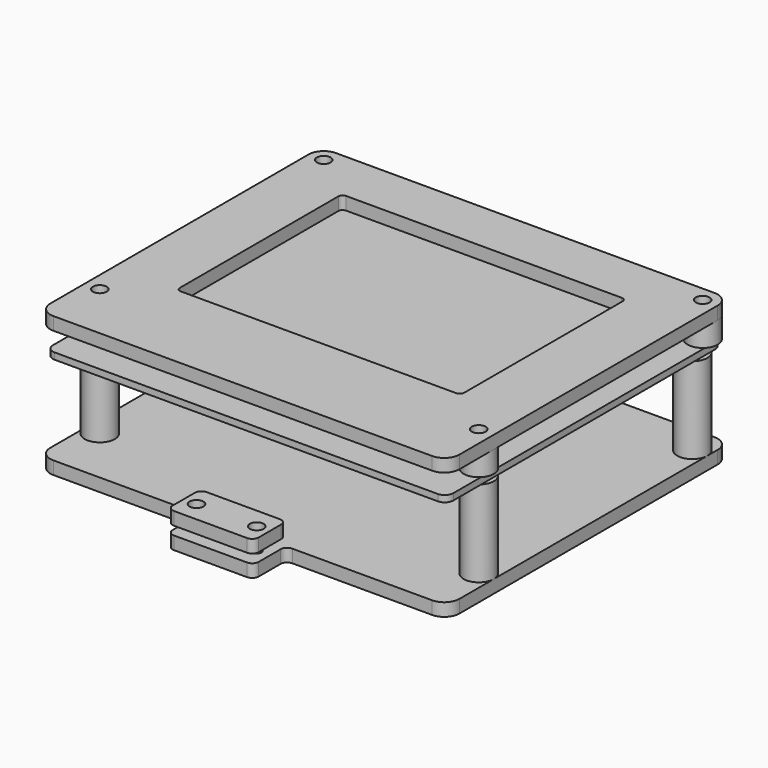
from build123d import *

# Parameters (mm, degrees)
F0_R      = 1.6
F1_DEPTH  = 3
F2_R      = 3.5
F2_R_2    = 1.75
F3_DEPTH  = 5
F4_R      = 1.6
F5_DEPTH  = 1.5
F6_R      = 3.5
F6_R_2    = 1.25
F7_DEPTH  = 20
F8_R      = 1.6
F8_R_2    = 1.1
F9_DEPTH  = 3
F11_R     = 1.6
F12_DEPTH = 3
F13_W     = 68
F13_H     = 50
F14_DEPTH = 5


with BuildPart() as f1:
    # F0 (on Top) → F1 (new body)
    with BuildSketch(Plane.XY):
        with BuildLine():
            Line((-44, -41), (44, -41))
            ThreePointArc((44, -41), (46.4748737342, -39.9748737342), (47.5, -37.5))
            Line((47.5, -37.5), (47.5, 37.5))
            ThreePointArc((47.5, 37.5), (46.4748737342, 39.9748737342), (44, 41))
            Line((44, 41), (-44, 41))
            ThreePointArc((-44, 41), (-46.4748737342, 39.9748737342), (-47.5, 37.5))
            Line((-47.5, 37.5), (-47.5, -37.5))
            ThreePointArc((-47.5, -37.5), (-46.4748737342, -39.9748737342), (-44, -41))
        make_face()
        with Locations((-44, -27.5)):
            Circle(F0_R, mode=Mode.SUBTRACT)
        with Locations((44, -27.5)):
            Circle(F0_R, mode=Mode.SUBTRACT)
        with Locations((-44, 37.5)):
            Circle(F0_R, mode=Mode.SUBTRACT)
        with BuildLine():
            ThreePointArc((-33, 28), (-32.7071067812, 28.7071067812), (-32, 29))
            Line((-32, 29), (32, 29))
            ThreePointArc((32, 29), (32.7071067812, 28.7071067812), (33, 28))
            Line((33, 28), (33, -18))
            ThreePointArc((33, -18), (32.7071067812, -18.7071067812), (32, -19))
            Line((32, -19), (-32, -19))
            ThreePointArc((-32, -19), (-32.7071067812, -18.7071067812), (-33, -18))
            Line((-33, -18), (-33, 28))
        make_face(mode=Mode.SUBTRACT)
        with Locations((44, 37.5)):
            Circle(F0_R, mode=Mode.SUBTRACT)
    extrude(amount=F1_DEPTH)


with BuildPart() as f3:
    # F2 (on face) → F3 (new body)
    with BuildSketch(Plane(origin=(0, 0, 0), x_dir=(1, 0, 0), z_dir=(0, 0, -1))):
        with Locations((-44, -37.5)):
            Circle(F2_R)
        with Locations((-44, -37.5)):
            Circle(F2_R_2, mode=Mode.SUBTRACT)
    extrude(amount=F3_DEPTH)


with BuildPart() as f3b:
    # F2 (on face) → F3, piece 2 (new body)
    with BuildSketch(Plane(origin=(0, 0, 0), x_dir=(1, 0, 0), z_dir=(0, 0, -1))):
        with Locations((44, -37.5)):
            Circle(F2_R)
        with Locations((44, -37.5)):
            Circle(F2_R_2, mode=Mode.SUBTRACT)
    extrude(amount=F3_DEPTH)


with BuildPart() as f3c:
    # F2 (on face) → F3, piece 3 (new body)
    with BuildSketch(Plane(origin=(0, 0, 0), x_dir=(1, 0, 0), z_dir=(0, 0, -1))):
        with Locations((44, 27.5)):
            Circle(F2_R)
        with Locations((44, 27.5)):
            Circle(F2_R_2, mode=Mode.SUBTRACT)
    extrude(amount=F3_DEPTH)


with BuildPart() as f3d:
    # F2 (on face) → F3, piece 4 (new body)
    with BuildSketch(Plane(origin=(0, 0, 0), x_dir=(1, 0, 0), z_dir=(0, 0, -1))):
        with Locations((-44, 27.5)):
            Circle(F2_R)
        with Locations((-44, 27.5)):
            Circle(F2_R_2, mode=Mode.SUBTRACT)
    extrude(amount=F3_DEPTH)


with BuildPart() as f5:
    # F4 (on face) → F5 (new body)
    with BuildSketch(Plane(origin=(0, 0, -5), x_dir=(1, 0, 0), z_dir=(0, 0, -1))):
        with BuildLine():
            Line((-44.5, -40), (44.5, -40))
            ThreePointArc((44.5, -40), (45.9142135624, -39.4142135624), (46.5, -38))
            Line((46.5, -38), (46.5, 38))
            ThreePointArc((46.5, 38), (45.9142135624, 39.4142135624), (44.5, 40))
            Line((44.5, 40), (-44.5, 40))
            ThreePointArc((-44.5, 40), (-45.9142135624, 39.4142135624), (-46.5, 38))
            Line((-46.5, 38), (-46.5, -38))
            ThreePointArc((-46.5, -38), (-45.9142135624, -39.4142135624), (-44.5, -40))
        make_face()
        with Locations((-44, -37.5)):
            Circle(F4_R, mode=Mode.SUBTRACT)
        with Locations((44, -37.5)):
            Circle(F4_R, mode=Mode.SUBTRACT)
        with Locations((-44, 27.5)):
            Circle(F4_R, mode=Mode.SUBTRACT)
        with Locations((44, 27.5)):
            Circle(F4_R, mode=Mode.SUBTRACT)
    extrude(amount=F5_DEPTH)

    # F13 (on face) → F14 (join, through all)
    with BuildSketch(Plane.XY.offset(-5)):
        with Locations((0, 5)):
            Rectangle(F13_W, F13_H)
    extrude(amount=F14_DEPTH)


with BuildPart() as f5b:
    # F4 (on face) → F5, piece 2 (new body)
    with BuildSketch(Plane(origin=(0, 0, -5), x_dir=(1, 0, 0), z_dir=(0, 0, -1))):
        with Locations((132, 27.5)):
            Circle(F4_R)
    extrude(amount=F5_DEPTH)


with BuildPart() as f5c:
    # F4 (on face) → F5, piece 3 (new body)
    with BuildSketch(Plane(origin=(0, 0, -5), x_dir=(1, 0, 0), z_dir=(0, 0, -1))):
        with Locations((132, -37.5)):
            Circle(F4_R)
    extrude(amount=F5_DEPTH)


with BuildPart() as f7:
    # F6 (on face) → F7 (new body)
    with BuildSketch(Plane(origin=(0, 0, -6.5), x_dir=(1, 0, 0), z_dir=(0, 0, -1))):
        with Locations((-44, 27.5)):
            Circle(F6_R)
        with Locations((-44, 27.5)):
            Circle(F6_R_2, mode=Mode.SUBTRACT)
    extrude(amount=F7_DEPTH)


with BuildPart() as f7b:
    # F6 (on face) → F7, piece 2 (new body)
    with BuildSketch(Plane(origin=(0, 0, -6.5), x_dir=(1, 0, 0), z_dir=(0, 0, -1))):
        with Locations((-44, -34.5)):
            Circle(F6_R)
        with Locations((-44, -34.5)):
            Circle(F6_R_2, mode=Mode.SUBTRACT)
    extrude(amount=F7_DEPTH)


with BuildPart() as f7c:
    # F6 (on face) → F7, piece 3 (new body)
    with BuildSketch(Plane(origin=(0, 0, -6.5), x_dir=(1, 0, 0), z_dir=(0, 0, -1))):
        with Locations((44, 27.5)):
            Circle(F6_R)
        with Locations((44, 27.5)):
            Circle(F6_R_2, mode=Mode.SUBTRACT)
    extrude(amount=F7_DEPTH)


with BuildPart() as f7d:
    # F6 (on face) → F7, piece 4 (new body)
    with BuildSketch(Plane(origin=(0, 0, -6.5), x_dir=(1, 0, 0), z_dir=(0, 0, -1))):
        with Locations((44, -34.5)):
            Circle(F6_R)
        with Locations((44, -34.5)):
            Circle(F6_R_2, mode=Mode.SUBTRACT)
    extrude(amount=F7_DEPTH)


with BuildPart() as f9:
    # F8 (on face) → F9 (new body)
    with BuildSketch(Plane(origin=(0, 0, -26.5), x_dir=(1, 0, 0), z_dir=(0, 0, -1))):
        with BuildLine():
            Line((-44, -41), (44, -41))
            ThreePointArc((44, -41), (46.4748737342, -39.9748737342), (47.5, -37.5))
            Line((47.5, -37.5), (47.5, 37.5))
            ThreePointArc((47.5, 37.5), (46.4748737342, 39.9748737342), (44, 41))
            Line((44, 41), (11.5, 41))
            ThreePointArc((11.5, 41), (10.4393398282, 41.4393398282), (10, 42.5))
            Line((10, 42.5), (10, 48.875))
            ThreePointArc((10, 48.875), (9.5606601718, 49.9356601718), (8.5, 50.375))
            Line((8.5, 50.375), (-8.5, 50.375))
            ThreePointArc((-8.5, 50.375), (-9.5606601718, 49.9356601718), (-10, 48.875))
            Line((-10, 48.875), (-10, 42.5))
            ThreePointArc((-10, 42.5), (-10.4393398282, 41.4393398282), (-11.5, 41))
            Line((-11.5, 41), (-44, 41))
            ThreePointArc((-44, 41), (-46.4748737342, 39.9748737342), (-47.5, 37.5))
            Line((-47.5, 37.5), (-47.5, -37.5))
            ThreePointArc((-47.5, -37.5), (-46.4748737342, -39.9748737342), (-44, -41))
        make_face()
        with Locations((-44, -37.5)):
            Circle(F8_R, mode=Mode.SUBTRACT)
        with Locations((44, -37.5)):
            Circle(F8_R, mode=Mode.SUBTRACT)
        with Locations((-44, 27.5)):
            Circle(F8_R, mode=Mode.SUBTRACT)
        with Locations((-7, 45.6875)):
            Circle(F8_R_2, mode=Mode.SUBTRACT)
        with Locations((44, 27.5)):
            Circle(F8_R, mode=Mode.SUBTRACT)
        with Locations((7, 45.6875)):
            Circle(F8_R_2, mode=Mode.SUBTRACT)
    extrude(amount=F9_DEPTH)


with BuildPart() as f12:
    # F11 (on offset) → F12 (new body)
    with BuildSketch(Plane.XY.offset(-24.5)):
        with BuildLine():
            Line((10, -48.875), (10, -42.375))
            ThreePointArc((10, -42.375), (9.5606601718, -41.3143398282), (8.5, -40.875))
            Line((8.5, -40.875), (-8.5, -40.875))
            ThreePointArc((-8.5, -40.875), (-9.5606601718, -41.3143398282), (-10, -42.375))
            Line((-10, -42.375), (-10, -48.875))
            ThreePointArc((-10, -48.875), (-9.5606601718, -49.9356601718), (-8.5, -50.375))
            Line((-8.5, -50.375), (8.5, -50.375))
            ThreePointArc((8.5, -50.375), (9.5606601718, -49.9356601718), (10, -48.875))
        make_face()
        with Locations((-7, -45.6875)):
            Circle(F11_R, mode=Mode.SUBTRACT)
        with Locations((7, -45.6875)):
            Circle(F11_R, mode=Mode.SUBTRACT)
    extrude(amount=F12_DEPTH)


solid = Compound([f1.part, f3.part, f3b.part, f3c.part, f3d.part, f5.part, f7.part, f7b.part, f7c.part, f7d.part, f9.part, f12.part])
